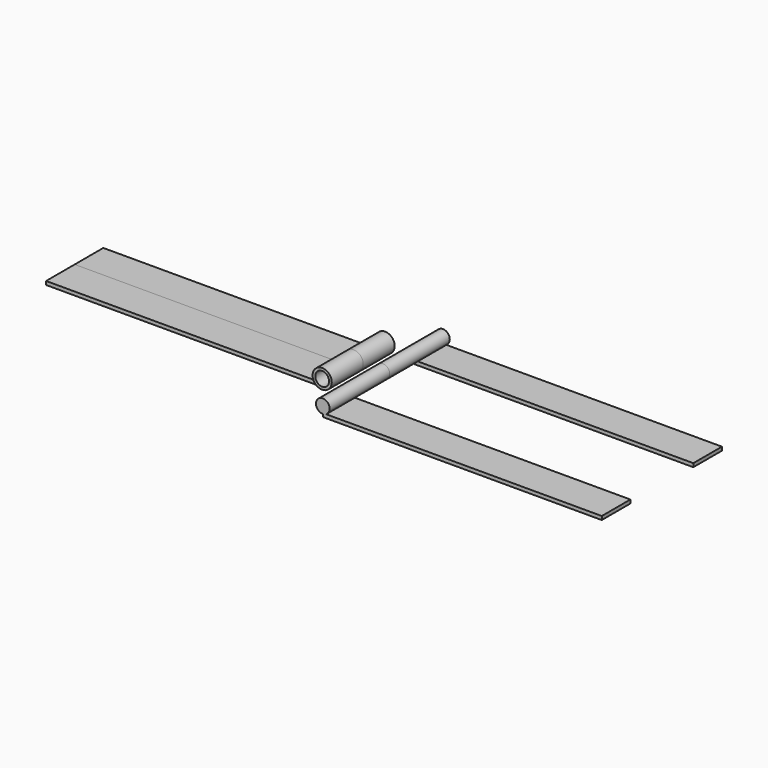
from build123d import *

# Parameters (mm, degrees)
F0_R     = 9.525
F1_DEPTH = 105
F2_R     = 13.4
F2_R_2   = 9.69
F3_DEPTH = 55
F5_DEPTH = 50
F8_DEPTH = 50


with BuildPart() as f1:
    # F0 (on Front) → F1 (new body)
    with BuildSketch(Plane.XZ):
        Circle(F0_R)
    extrude(amount=F1_DEPTH)

    # F6 (on face) → F8 (join)
    with BuildSketch(Plane.XZ.offset(105)):
        with BuildLine():
            ThreePointArc((4.490615214, -8.4), (2.3146949043, -9.2394703582), (0, -9.525))
            Line((0, -9.525), (0, -13.4))
            Line((0, -13.4), (390, -13.4))
            Line((390, -13.4), (390, -8.4))
            Line((390, -8.4), (4.490615214, -8.4))
        make_face()
    extrude(amount=-F8_DEPTH)


with BuildPart() as f3:
    # F2 (on Front) → F3 (new body)
    with BuildSketch(Plane.XZ):
        with Locations((-40.8605183367, 0)):
            Circle(F2_R)
        with Locations((-40.8605183367, 0)):
            Circle(F2_R_2, mode=Mode.SUBTRACT)
    extrude(amount=F3_DEPTH)

    # F4 (on Front) → F5 (join)
    with BuildSketch(Plane.XZ):
        with BuildLine():
            ThreePointArc((-40.8605183367, -13.4), (-46.6484367881, -12.0855285362), (-51.3008248456, -8.4))
            Line((-51.3008248456, -8.4), (-430.8605183367, -8.4))
            Line((-430.8605183367, -8.4), (-430.8605183367, -13.4))
            Line((-430.8605183367, -13.4), (-40.8605183367, -13.4))
        make_face()
    extrude(amount=F5_DEPTH)


with BuildPart() as f7_1:
    # F7: instance of F3
    add(f3.part.mirror(Plane.XZ))


with BuildPart() as f9_1:
    # F9: instance of F1
    add(f1.part.mirror(Plane.XZ))


solid = Compound([f1.part, f3.part, f7_1.part, f9_1.part])
